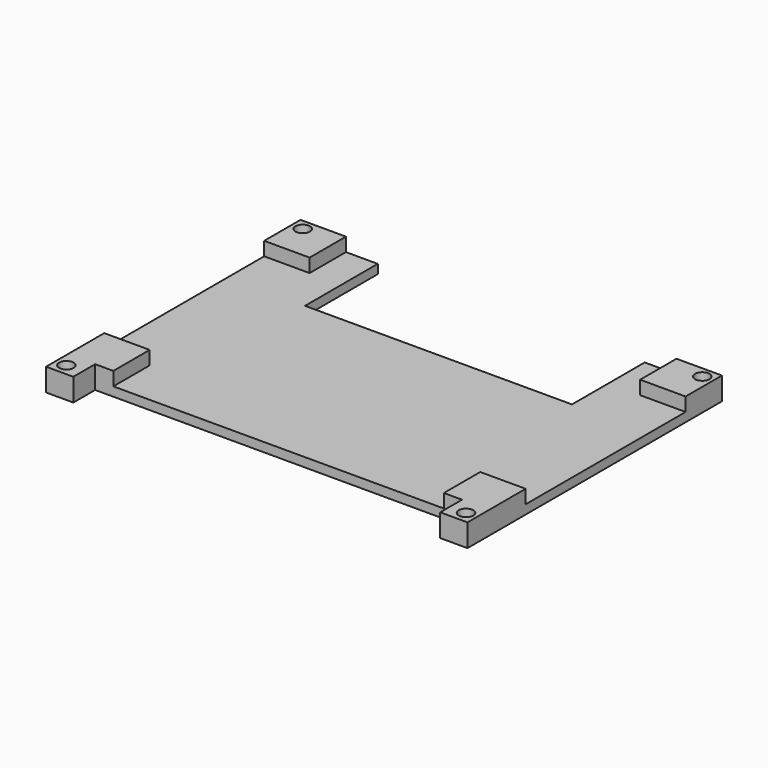
from build123d import *

# Parameters (mm, degrees)
F0_R     = 1.6
F1_DEPTH = 2
F2_W     = 10
F2_H     = 10
F2_R     = 1.6
F3_DEPTH = 3
F4_W     = 6
F4_H     = 6
F4_R     = 1.6
F5_DEPTH = 5


with BuildPart() as f1:
    # F0 (on Top) → F1 (new body)
    with BuildSketch(Plane.XY):
        Polygon((-27.939597, 0), (-27.939597, 20), (-44.939597, 20), (-44.939597, -44), (47.810403, -44), (47.810403, 20), (30.810403, 20), (30.810403, 0), align=None)
        with Locations((-42.539597, 17.6)):
            Circle(F0_R, mode=Mode.SUBTRACT)
        with Locations((45.410403, 17.6)):
            Circle(F0_R, mode=Mode.SUBTRACT)
    extrude(amount=F1_DEPTH)

    # F2 (on face) → F3 (join)
    with BuildSketch(Plane.XY.offset(2)):
        with Locations((-39.939597, 15)):
            Rectangle(F2_W, F2_H)
        with Locations((-42.539597, 17.6)):
            Circle(F2_R, mode=Mode.SUBTRACT)
        with Locations((42.810403, 15)):
            Rectangle(F2_W, F2_H)
        with Locations((45.410403, 17.6)):
            Circle(F2_R, mode=Mode.SUBTRACT)
        with Locations((-39.939597, -39)):
            Rectangle(F2_W, F2_H)
        with Locations((42.810403, -39)):
            Rectangle(F2_W, F2_H)
    extrude(amount=F3_DEPTH)

    # F4 (on face) → F5 (join)
    with BuildSketch(Plane(origin=(0, 0, 0), x_dir=(1, 0, 0), z_dir=(0, 0, -1))):
        with Locations((-41.939597, 47)):
            Rectangle(F4_W, F4_H)
        with Locations((-42.539597, 47.4)):
            Circle(F4_R, mode=Mode.SUBTRACT)
        with Locations((44.810403, 47)):
            Rectangle(F4_W, F4_H)
        with Locations((45.410403, 47.4)):
            Circle(F4_R, mode=Mode.SUBTRACT)
    extrude(amount=-F5_DEPTH)


solid = f1.part
